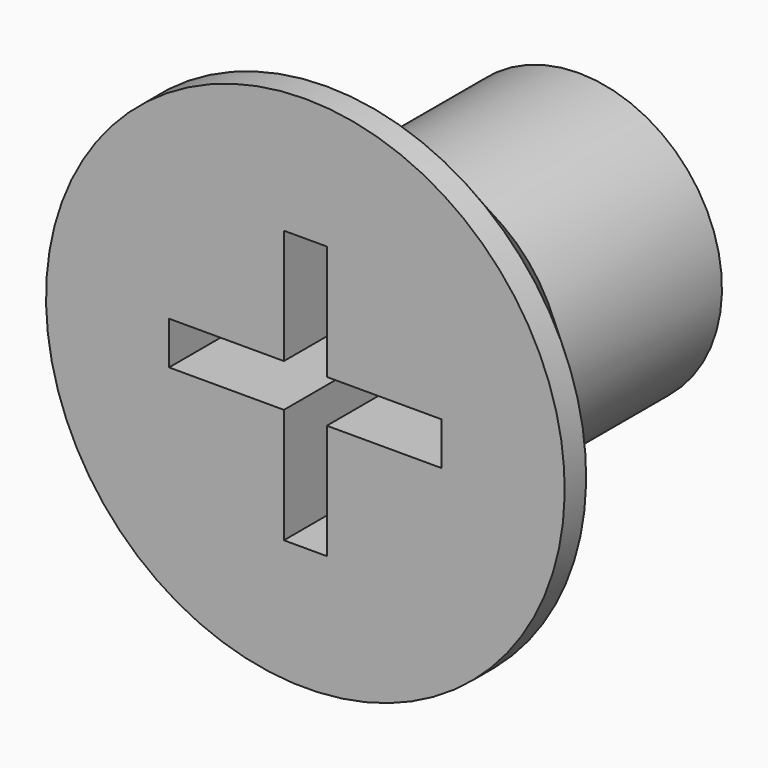
from build123d import *

# Parameters (mm, degrees)
POCKET_DEPTH = 5.08


with BuildPart() as part:
    # Sketch → Revolution (revolve)
    with BuildSketch(Plane.YZ):
        Polygon((0, 0), (0, 7.25), (0.75, 7.25), (4, 4), (9.558327, 4), (10, 3.235), (10, 0), align=None)
    revolve(axis=Axis((0, 0, 0), (0, 1, 0)))

    # Sketch001 → Pocket (cut)
    with BuildSketch(Plane(origin=(0, 0, 0), x_dir=(0, 0, -1), z_dir=(0, -1, 0))):
        Polygon((-3.81, 0.6), (-0.6, 0.6), (-0.6, 3.81), (0.6, 3.81), (0.6, 0.6), (3.81, 0.6), (3.81, -0.6), (0.6, -0.6), (0.6, -3.81), (-0.6, -3.81), (-0.6, -0.6), (-3.81, -0.6), align=None)
    extrude(amount=-POCKET_DEPTH, mode=Mode.SUBTRACT)


solid = part.part
